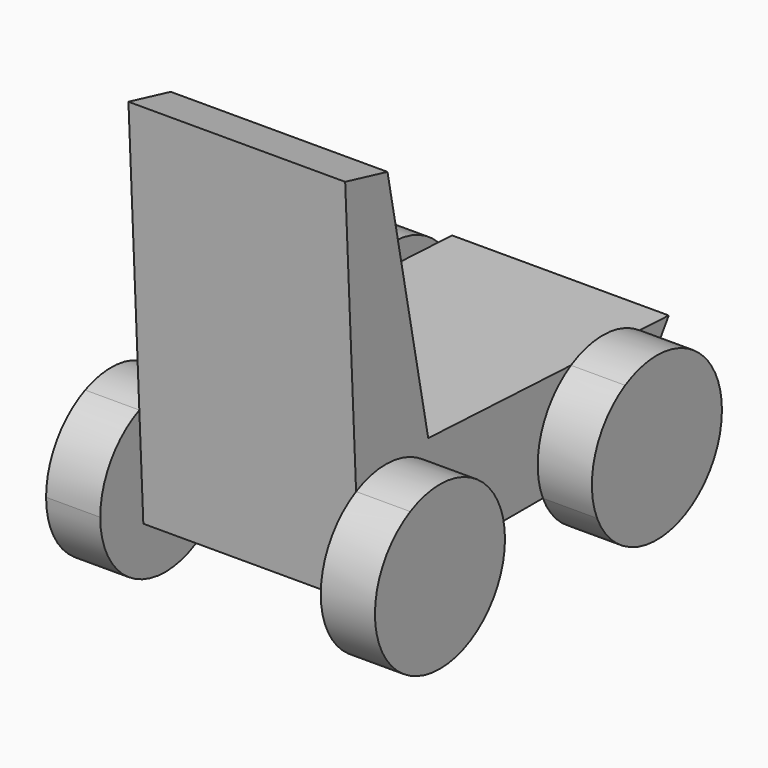
from build123d import *

# Parameters (mm, degrees)
F1_DEPTH = 25.4
F3_DEPTH = 12.7
F5_DEPTH = 12.7


with BuildPart() as f1:
    # F0 (on Right) → F1 (new body, symmetric)
    with BuildSketch(Plane.YZ):
        Polygon((-30.7642482221, 59.8066113889), (-43.1617796421, 62.7912059426), (-38.7996844947, -26.0577760637), (36.5038476884, -26.0577760637), (51.6563877463, -3.328967141), (-18.8258830458, 0), align=None)
    extrude(amount=F1_DEPTH, both=True)

    # F2 (on face) → F3 (join)
    with BuildSketch(Plane.YZ.offset(25.4)):
        with BuildLine():
            Line((-38.7996844947, -26.0577760637), (-39.9597344248, -2.4293929413))
            ThreePointArc((-39.9597344248, -2.4293929413), (-43.9297710113, -33.6056919757), (-13.4215462618, -26.0577760637))
            Line((-13.4215462618, -26.0577760637), (-38.7996844947, -26.0577760637))
        make_face()
        with BuildLine():
            ThreePointArc((23.0047428651, -1.9757135742), (14.2789928232, -12.4410495521), (14.7757120925, -26.0577760637))
            Line((14.7757120925, -26.0577760637), (36.5038476884, -26.0577760637))
            Line((36.5038476884, -26.0577760637), (48.3362770566, -8.3091329206))
            ThreePointArc((48.3362770566, -8.3091329206), (46.0012077103, -5.3595465788), (43.1320322619, -2.9263510081))
            Line((43.1320322619, -2.9263510081), (23.0047428651, -1.9757135742))
        make_face()
        with BuildLine():
            Line((36.5038476884, -26.0577760637), (14.7757120925, -26.0577760637))
            ThreePointArc((14.7757120925, -26.0577760637), (36.1107346383, -37.2669929283), (51.3556094348, -18.6008866876))
            ThreePointArc((51.3556094348, -18.6008866876), (50.585198027, -13.2381317144), (48.3362770566, -8.3091329206))
            Line((48.3362770566, -8.3091329206), (36.5038476884, -26.0577760637))
        make_face()
        with BuildLine():
            ThreePointArc((43.1320322619, -2.9263510081), (33.2043632144, 0.427900495), (23.0047428651, -1.9757135742))
            Line((23.0047428651, -1.9757135742), (43.1320322619, -2.9263510081))
        make_face()
        with BuildLine():
            ThreePointArc((-13.4215462618, -26.0577760637), (-12.5168247449, -22.7721507415), (-12.2119991601, -19.3779002875))
            ThreePointArc((-12.2119991601, -19.3779002875), (-21.3319779313, -3.1206810174), (-39.9597344248, -2.4293929413))
            Line((-39.9597344248, -2.4293929413), (-38.7996844947, -26.0577760637))
            Line((-38.7996844947, -26.0577760637), (-13.4215462618, -26.0577760637))
        make_face()
    extrude(amount=F3_DEPTH)

    # F4 (on face) → F5 (join)
    with BuildSketch(Plane(origin=(-25.4, 0, 0), x_dir=(0, -1, 0), z_dir=(-1, 0, 0))):
        with BuildLine():
            ThreePointArc((-49.9511753023, -5.886785676), (-44.364371435, -32.8563377087), (-17.6745105539, -26.0577760637))
            Line((-17.6745105539, -26.0577760637), (-36.5038476884, -26.0577760637))
            Line((-36.5038476884, -26.0577760637), (-49.9511753023, -5.886785676))
        make_face()
        with BuildLine():
            ThreePointArc((-17.6745105539, -26.0577760637), (-15.8427926815, -21.5381365786), (-15.2185845072, -16.7015369886))
            ThreePointArc((-15.2185845072, -16.7015369886), (-17.0599821691, -8.5304596075), (-22.2281913909, -1.9390360621))
            Line((-22.2281913909, -1.9390360621), (-47.6467773495, -3.1395881509))
            ThreePointArc((-47.6467773495, -3.1395881509), (-48.8637569956, -4.4588477401), (-49.9511753023, -5.886785676))
            Line((-49.9511753023, -5.886785676), (-36.5038476884, -26.0577760637))
            Line((-36.5038476884, -26.0577760637), (-17.6745105539, -26.0577760637))
        make_face()
        with BuildLine():
            Line((-47.6467773495, -3.1395881509), (-22.2281913909, -1.9390360621))
            ThreePointArc((-22.2281913909, -1.9390360621), (-35.1673382867, 2.3272501941), (-47.6467773495, -3.1395881509))
        make_face()
        with BuildLine():
            ThreePointArc((39.9746132614, -2.1263345619), (19.3411728577, -5.6965682778), (14.4517302333, -26.0577760637))
            Line((14.4517302333, -26.0577760637), (38.7996844947, -26.0577760637))
            Line((38.7996844947, -26.0577760637), (39.9746132614, -2.1263345619))
        make_face()
        with BuildLine():
            Line((38.7996844947, -26.0577760637), (14.4517302333, -26.0577760637))
            ThreePointArc((14.4517302333, -26.0577760637), (35.6526480592, -38.358509601), (51.4213347316, -19.5932362791))
            ThreePointArc((51.4213347316, -19.5932362791), (48.3047109587, -9.151492076), (39.9746132614, -2.1263345619))
            Line((39.9746132614, -2.1263345619), (38.7996844947, -26.0577760637))
        make_face()
    extrude(amount=F5_DEPTH)


solid = f1.part
